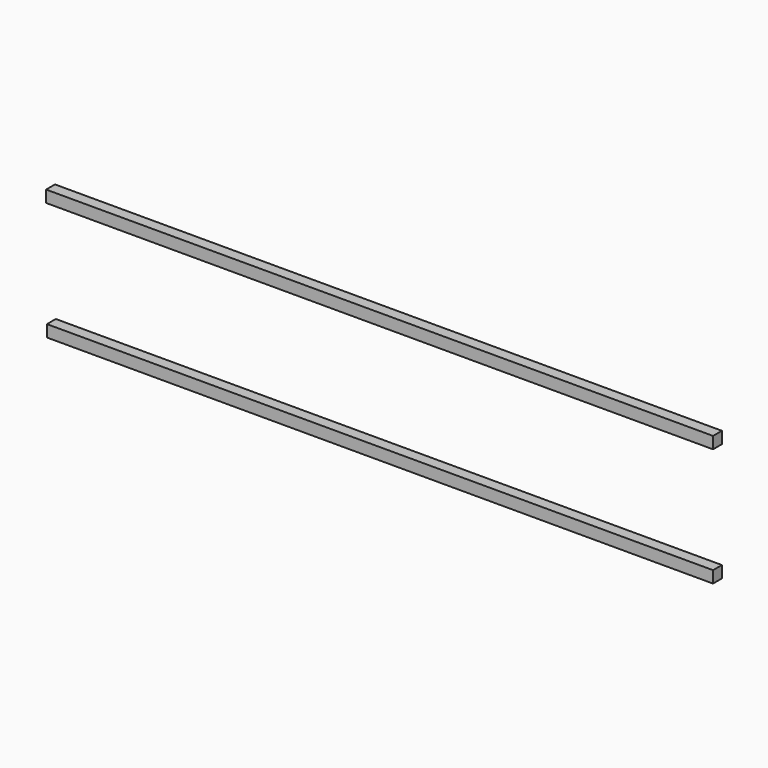
from build123d import *

# Parameters (mm, degrees)
F0_W     = 152.49192
F0_H     = 2.702389
F1_DEPTH = 2.54
F0_W_2   = 152.29889
F2_DEPTH = 2.54


with BuildPart() as f1:
    # F0 (on Front) → F1 (new body)
    with BuildSketch(Plane.XZ):
        with Locations((-0.193026, 14.573594)):
            Rectangle(F0_W, F0_H)
    extrude(amount=-F1_DEPTH)

    # F0 (on Front) → F2 (join)
    with BuildSketch(Plane.XZ):
        with Locations((-0.096511, -12.45029)):
            Rectangle(F0_W_2, F0_H)
        with Locations((-0.193026, 14.573594)):
            Rectangle(F0_W, F0_H)
    extrude(amount=-F2_DEPTH)


solid = f1.part
